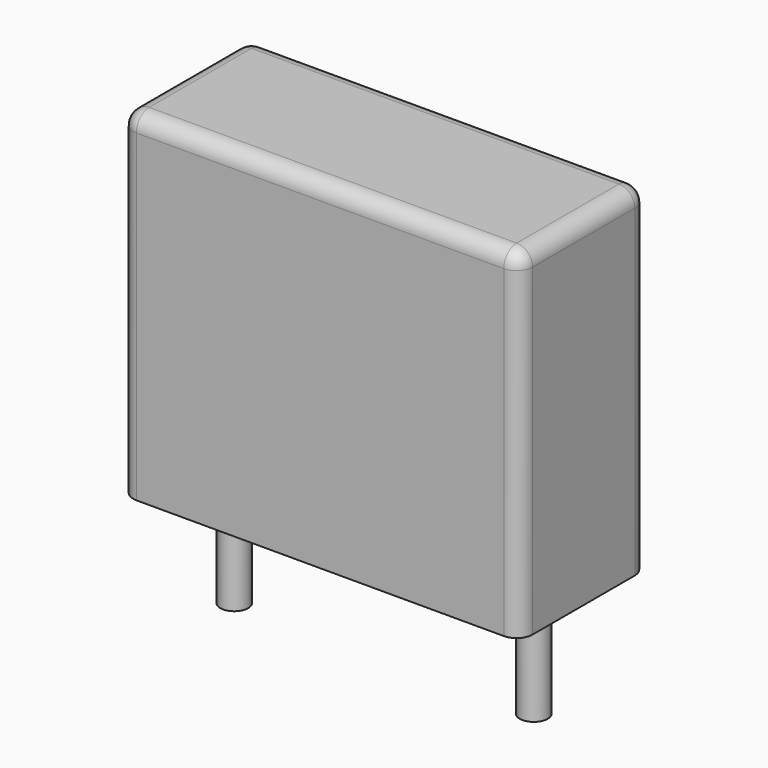
from build123d import *

# Parameters (mm, degrees)
SKETCH_W     = 10
SKETCH_H     = 4
PAD_DEPTH    = 8.5
FILLET_R     = 0.4
SKETCH001_R  = 0.35
PAD001_DEPTH = 3.2


with BuildPart() as fillet_body:
    # Sketch → Pad (new body)
    with BuildSketch(Plane.XY.offset(0.1)):
        with Locations((3.75, 0)):
            Rectangle(SKETCH_W, SKETCH_H)
    extrude(amount=PAD_DEPTH)

    # Fillet
    fillet_edges = [fillet_body.edges().sort_by_distance(p)[0] for p in [
        (-1.25, 0, 8.6),
        (-1.25, -2, 4.35),
        (3.75, -2, 8.6),
        (8.75, -2, 4.35),
        (8.75, 0, 8.6),
        (8.75, 2, 4.35),
        (3.75, 2, 8.6),
        (-1.25, 2, 4.35),
    ]]
    fillet(fillet_edges, radius=FILLET_R)


with BuildPart() as pad001:
    # Sketch001 → Pad001 (new body)
    with BuildSketch(Plane.XY.offset(0.5)):
        Circle(SKETCH001_R)
        with Locations((7.5, 0)):
            Circle(SKETCH001_R)
    extrude(amount=-PAD001_DEPTH)


solid = Compound([fillet_body.part, pad001.part])
